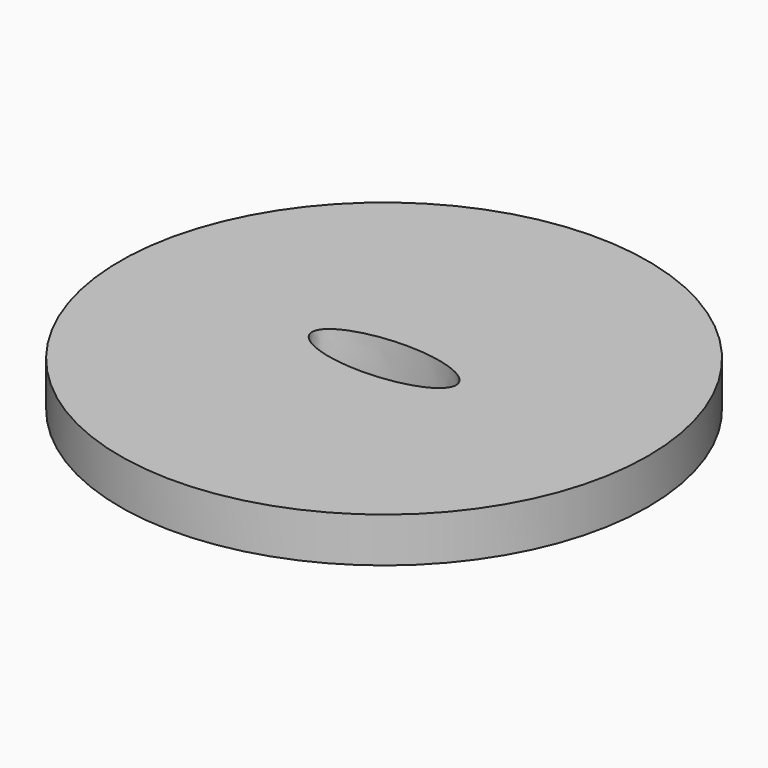
from build123d import *

# Parameters (mm, degrees)
F0_R     = 165
F1_DEPTH = 28


with BuildPart() as f1:
    # F0 (on Top) → F1 (new body)
    with BuildSketch(Plane.XY):
        with Locations((165, 165)):
            Circle(F0_R)
        with BuildLine():
            add(Edge.make_bspline(
                [(120, 165), (120, 134.689111), (187.5, 149.844555), (255, 165), (187.5, 180.155445), (120, 195.310889), (120, 165)],
                knots=[0, 0, 0, 2.094395, 2.094395, 4.18879, 4.18879, 6.283185, 6.283185, 6.283185], degree=2, weights=[1, 0.5, 1, 0.5, 1, 0.5, 1]))
        make_face(mode=Mode.SUBTRACT)
    extrude(amount=F1_DEPTH)


solid = f1.part
